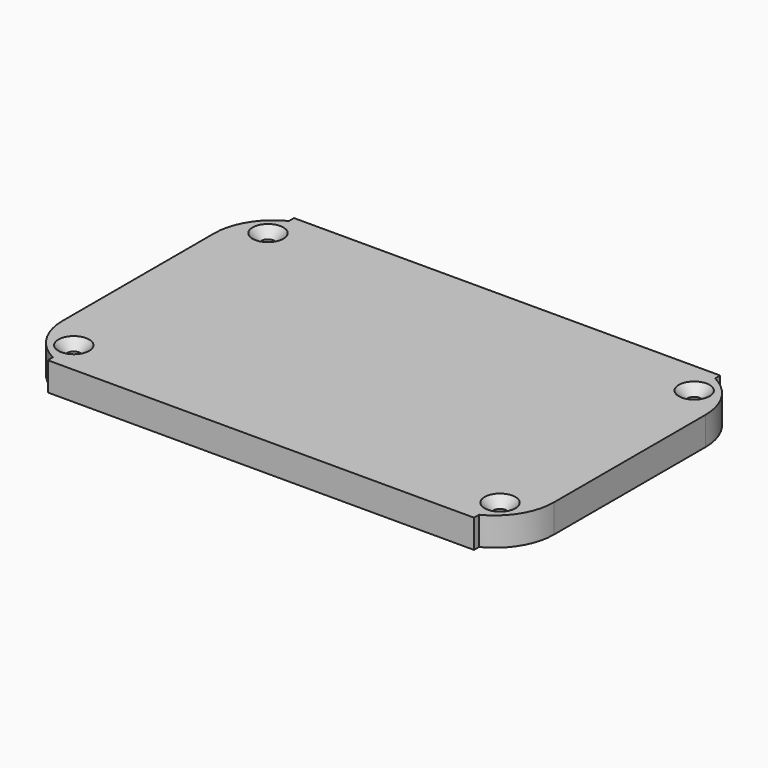
from build123d import *

# Parameters (mm, degrees)
SKETCH033_R     = 1.1
PAD017_DEPTH    = 4.8
POCKET009_DEPTH = 2.5
POCKET010_DEPTH = 3
CHAMFER011_SIZE = 1.5
SKETCH040_R     = 6.75
POCKET014_DEPTH = 2


with BuildPart() as part:
    # Sketch033 → Pad017 (new body)
    with BuildSketch(Plane.XY):
        with BuildLine():
            Line((0, 10), (0, 42))
            ThreePointArc((5.5, 50.930286), (1.485307, 47.244044), (0, 42))
            Line((5.5, 50.930286), (5.5, 52))
            Line((5.5, 52), (77.5, 52))
            Line((77.5, 52), (77.5, 50.930286))
            ThreePointArc((83, 42), (81.514693, 47.244044), (77.5, 50.930286))
            Line((83, 42), (83, 10))
            ThreePointArc((77.5, 1.069714), (81.514693, 4.755956), (83, 10))
            Line((77.5, 1.069714), (77.5, 0))
            Line((5.5, 0), (77.5, 0))
            Line((5.5, 1.069714), (5.5, 0))
            ThreePointArc((0, 10), (1.485307, 4.755956), (5.5, 1.069714))
        make_face()
        with Locations((5.5, 46.5)):
            Circle(SKETCH033_R, mode=Mode.SUBTRACT)
        with Locations((77.5, 46.5)):
            Circle(SKETCH033_R, mode=Mode.SUBTRACT)
        with Locations((5.5, 5.5)):
            Circle(SKETCH033_R, mode=Mode.SUBTRACT)
        with Locations((77.5, 5.5)):
            Circle(SKETCH033_R, mode=Mode.SUBTRACT)
    extrude(amount=PAD017_DEPTH)

    # Sketch034 → Pocket009 (cut)
    with BuildSketch(Plane.XY):
        with BuildLine():
            Line((9.5, 50.3), (73.5, 50.3))
            ThreePointArc((74.8, 49), (74.419239, 49.919239), (73.5, 50.3))
            Line((74.8, 46.5), (74.8, 49))
            ThreePointArc((74.8, 46.5), (75.590812, 44.590812), (77.5, 43.8))
            Line((80, 43.8), (77.5, 43.8))
            ThreePointArc((81.3, 42.5), (80.919239, 43.419239), (80, 43.8))
            Line((81.3, 42.5), (81.3, 9.5))
            ThreePointArc((80, 8.2), (80.919239, 8.580761), (81.3, 9.5))
            Line((77.5, 8.2), (80, 8.2))
            ThreePointArc((77.5, 8.2), (75.590812, 7.409188), (74.8, 5.5))
            Line((74.8, 3), (74.8, 5.5))
            ThreePointArc((73.5, 1.7), (74.419239, 2.080761), (74.8, 3))
            Line((73.5, 1.7), (9.5, 1.7))
            ThreePointArc((8.2, 3), (8.580761, 2.080761), (9.5, 1.7))
            Line((8.2, 5.5), (8.2, 3))
            ThreePointArc((8.2, 5.5), (7.409188, 7.409188), (5.5, 8.2))
            Line((3, 8.2), (5.5, 8.2))
            ThreePointArc((1.7, 9.5), (2.080761, 8.580761), (3, 8.2))
            Line((1.7, 9.5), (1.7, 42.5))
            ThreePointArc((3, 43.8), (2.080761, 43.419239), (1.7, 42.5))
            Line((5.5, 43.8), (3, 43.8))
            ThreePointArc((5.5, 43.8), (7.409188, 44.590812), (8.2, 46.5))
            Line((8.2, 49), (8.2, 46.5))
            ThreePointArc((9.5, 50.3), (8.580761, 49.919239), (8.2, 49))
        make_face()
        with BuildLine():
            Line((10.3, 48.7), (72.7, 48.7))
            ThreePointArc((73.2, 48.2), (73.053553, 48.553553), (72.7, 48.7))
            Line((73.2, 46.5), (73.2, 48.2))
            ThreePointArc((73.2, 46.5), (74.459441, 43.459441), (77.5, 42.2))
            Line((79.2, 42.2), (77.5, 42.2))
            ThreePointArc((79.7, 41.7), (79.553553, 42.053553), (79.2, 42.2))
            Line((79.7, 41.7), (79.7, 10.3))
            ThreePointArc((79.2, 9.8), (79.553553, 9.946447), (79.7, 10.3))
            Line((77.5, 9.8), (79.2, 9.8))
            ThreePointArc((77.5, 9.8), (74.459441, 8.540559), (73.2, 5.5))
            Line((73.2, 3.8), (73.2, 5.5))
            ThreePointArc((72.7, 3.3), (73.053553, 3.446447), (73.2, 3.8))
            Line((72.7, 3.3), (10.3, 3.3))
            ThreePointArc((9.8, 3.8), (9.946447, 3.446447), (10.3, 3.3))
            Line((9.8, 3.8), (9.8, 5.5))
            ThreePointArc((9.8, 5.5), (8.540559, 8.540559), (5.5, 9.8))
            Line((5.5, 9.8), (3.8, 9.8))
            ThreePointArc((3.3, 10.3), (3.446447, 9.946447), (3.8, 9.8))
            Line((3.3, 10.3), (3.3, 41.7))
            ThreePointArc((3.8, 42.2), (3.446447, 42.053553), (3.3, 41.7))
            Line((5.5, 42.2), (3.8, 42.2))
            ThreePointArc((5.5, 42.2), (8.540559, 43.459441), (9.8, 46.5))
            Line((9.8, 48.2), (9.8, 46.5))
            ThreePointArc((10.3, 48.7), (9.946447, 48.553553), (9.8, 48.2))
        make_face(mode=Mode.SUBTRACT)
    extrude(amount=POCKET009_DEPTH, mode=Mode.SUBTRACT)

    # Sketch035 → Pocket010 (cut)
    with BuildSketch(Plane.XY):
        with BuildLine():
            Line((11.3, 47.7), (71.7, 47.7))
            ThreePointArc((72.2, 47.2), (72.053553, 47.553553), (71.7, 47.7))
            Line((72.2, 46.5), (72.2, 47.2))
            ThreePointArc((72.2, 46.5), (73.752334, 42.752334), (77.5, 41.2))
            Line((78.2, 41.2), (77.5, 41.2))
            ThreePointArc((78.7, 40.7), (78.553553, 41.053553), (78.2, 41.2))
            Line((78.7, 40.7), (78.7, 11.3))
            ThreePointArc((78.2, 10.8), (78.553553, 10.946447), (78.7, 11.3))
            Line((77.5, 10.8), (78.2, 10.8))
            ThreePointArc((77.5, 10.8), (73.752334, 9.247666), (72.2, 5.5))
            Line((72.2, 4.8), (72.2, 5.5))
            ThreePointArc((71.7, 4.3), (72.053553, 4.446447), (72.2, 4.8))
            Line((71.7, 4.3), (11.3, 4.3))
            ThreePointArc((10.8, 4.8), (10.946447, 4.446447), (11.3, 4.3))
            Line((10.8, 5.5), (10.8, 4.8))
            ThreePointArc((10.8, 5.5), (9.247666, 9.247666), (5.5, 10.8))
            Line((4.8, 10.8), (5.5, 10.8))
            ThreePointArc((4.3, 11.3), (4.446447, 10.946447), (4.8, 10.8))
            Line((4.3, 11.3), (4.3, 40.7))
            ThreePointArc((4.8, 41.2), (4.446447, 41.053553), (4.3, 40.7))
            Line((5.5, 41.2), (4.8, 41.2))
            ThreePointArc((5.5, 41.2), (9.247666, 42.752334), (10.8, 46.5))
            Line((10.8, 47.2), (10.8, 46.5))
            ThreePointArc((11.3, 47.7), (10.946447, 47.553553), (10.8, 47.2))
        make_face()
    extrude(amount=POCKET010_DEPTH, mode=Mode.SUBTRACT)

    # Chamfer011
    chamfer011_edges = [part.edges().sort_by_distance(p)[0] for p in [
        (76.4, 46.5, 4.8),
        (76.4, 5.5, 4.8),
        (4.4, 5.5, 4.8),
        (4.4, 46.5, 4.8),
    ]]
    chamfer(chamfer011_edges, length=CHAMFER011_SIZE)

    # Sketch040 (on Face79 of Chamfer011) → Pocket014 (cut)
    with BuildSketch(Plane(origin=(78.7, 0, 0), x_dir=(0, -1, 0), z_dir=(-1, 0, 0))):
        with Locations((-25.5, -6)):
            Circle(SKETCH040_R)
    extrude(amount=-POCKET014_DEPTH, mode=Mode.SUBTRACT)


with BuildPart() as part_1:
    # Body009 placement: moved
    add(part.part.moved(Location((-13, -6.5, 19.5))))


solid = part_1.part
